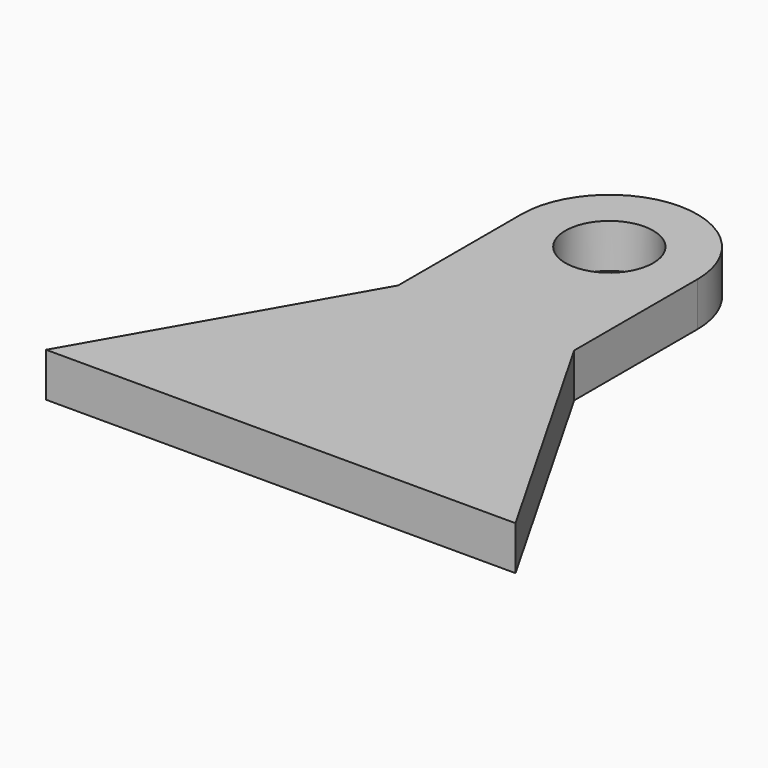
from build123d import *

# Parameters (mm, degrees)
F0_R     = 18.996784
F1_DEPTH = 19.05


with BuildPart() as f1:
    # F0 (on Top) → F1 (new body)
    with BuildSketch(Plane.XY):
        with BuildLine():
            Line((-38.1, 111.125), (-101.6, 0))
            Line((-101.6, 0), (101.6, 0))
            Line((101.6, 0), (38.1, 111.125))
            Line((38.1, 111.125), (38.1, 139.7))
            Line((38.1, 139.7), (38.1, 177.8))
            ThreePointArc((38.1, 177.8), (26.940768, 204.740768), (0, 215.9))
            ThreePointArc((0, 215.9), (-26.940768, 204.740768), (-38.1, 177.8))
            Line((-38.1, 177.8), (-38.1, 139.7))
            Line((-38.1, 139.7), (-38.1, 111.125))
        make_face()
        with Locations((0, 177.8)):
            Circle(F0_R, mode=Mode.SUBTRACT)
    extrude(amount=F1_DEPTH)


solid = f1.part
